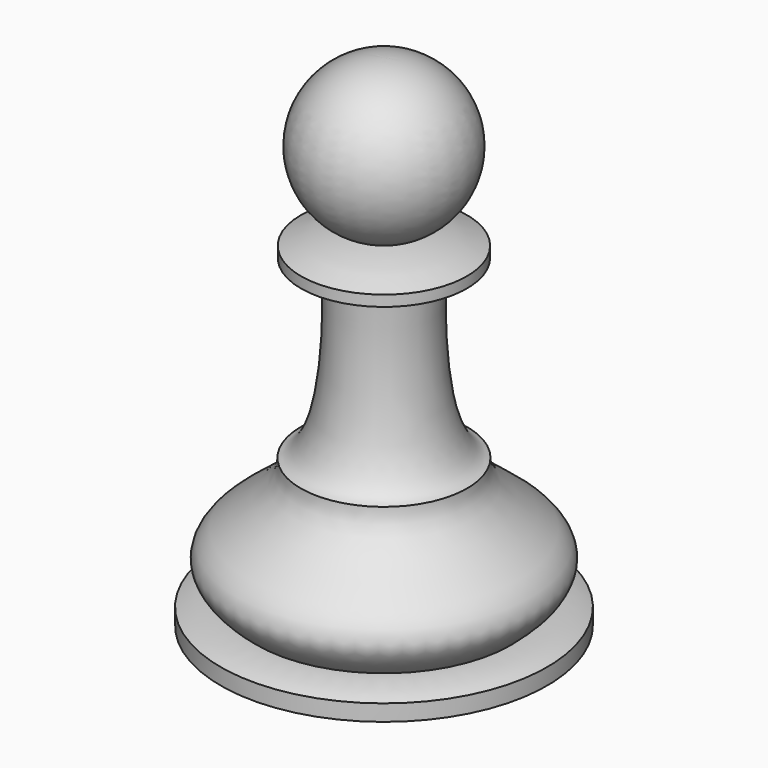
from build123d import *


with BuildPart() as f1:
    # F0 (on Front) → F1 (revolve)
    with BuildSketch(Plane.XZ):
        with BuildLine():
            Line((-10, 0), (0, 0))
            Line((0, 0), (0, 30.616511))
            ThreePointArc((0, 30.616511), (-4.740166, 26.710493), (-1.659394, 21.396833))
            add(Edge.make_bspline(
                [(-5.082277, 20.4888), (-3.885339, 20.991126), (-3.088581, 21.190317), (-1.659394, 21.396833)],
                knots=[0, 0, 0, 0, 3.541278, 3.541278, 3.541278, 3.541278], degree=3))
            Line((-5.082277, 20.4888), (-5.082277, 19.825544))
            add(Edge.make_bspline(
                [(-3.044157, 19.366601), (-3.712708, 19.397611), (-4.389953, 19.517124), (-5.082277, 19.825544)],
                knots=[0, 0, 0, 0, 2.089153, 2.089153, 2.089153, 2.089153], degree=3))
            add(Edge.make_bspline(
                [(-5.098796, 9.048736), (-2.954825, 9.607063), (-2.798493, 16.775969), (-3.044157, 19.366601)],
                knots=[0, 0, 0, 0, 10.520451, 10.520451, 10.520451, 10.520451], degree=3))
            add(Edge.make_bspline(
                [(-7.781336, 1.467183), (-12.290036, 5.140454), (-4.942465, 5.944443), (-5.098796, 9.048736)],
                knots=[0, 0, 0, 0, 8.042137, 8.042137, 8.042137, 8.042137], degree=3))
            add(Edge.make_bspline(
                [(-10, 1), (-9.316604, 1.318128), (-8.541517, 1.452277), (-7.781336, 1.467183)],
                knots=[0, 0, 0, 0, 2.267318, 2.267318, 2.267318, 2.267318], degree=3))
            Line((-10, 1), (-10, 0))
        make_face()
    revolve(axis=Axis((0, 0, 15.308255), (0, 0, -1)))


solid = f1.part
